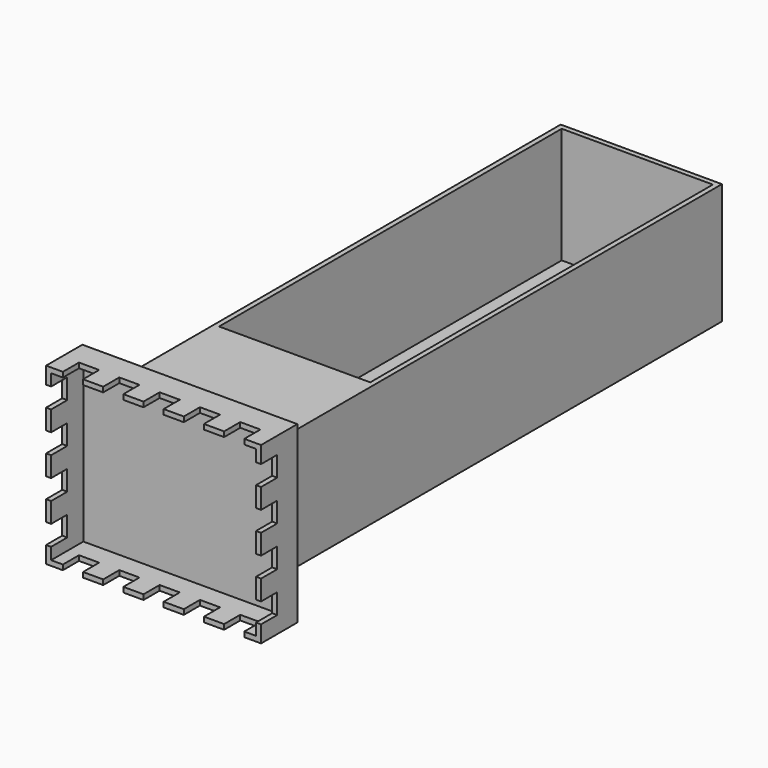
from build123d import *

# Parameters (mm, degrees)
F1_DEPTH  = 1066.8
F2_W      = 812.8
F2_H      = 660.4
F3_DEPTH  = 19.05
F4_W      = 812.8
F4_H      = 660.4
F4_W_2    = 774.7
F4_H_2    = 622.3
F5_DEPTH  = 152.4
F6_W      = 76.2
F6_H      = 76.2
F7_DEPTH  = 660.401
F8_W      = 76.2
F8_H      = 76.2
F9_DEPTH  = 812.801
F10_W     = 571.5
F10_H     = 19.05
F11_DEPTH = 438.15
F12_W     = 571.5
F12_H     = 19.05
F13_DEPTH = 495.3


with BuildPart() as f1:
    # F0 (on Front) → F1 (new body, symmetric)
    with BuildSketch(Plane.XZ):
        Polygon((304.8, -228.6), (304.8, 228.6), (285.75, 228.6), (285.75, 209.55), (285.75, -209.55), (-285.75, -209.55), (-285.75, 209.55), (-285.75, 228.6), (-304.8, 228.6), (-304.8, -228.6), align=None)
    extrude(amount=F1_DEPTH, both=True)

    # F2 (on face) → F3 (join)
    with BuildSketch(Plane.XZ.offset(1066.8)):
        Rectangle(F2_W, F2_H)
    extrude(amount=F3_DEPTH)

    # F4 (on face) → F5 (join)
    with BuildSketch(Plane.XZ.offset(1085.85)):
        Rectangle(F4_W, F4_H)
        Rectangle(F4_W_2, F4_H_2, mode=Mode.SUBTRACT)
    extrude(amount=F5_DEPTH)

    # F6 (on face) → F7 (cut, through all)
    with BuildSketch(Plane(origin=(0, 0, -330.2), x_dir=(1, 0, 0), z_dir=(0, 0, -1))):
        with Locations((-304.8, 1200.15)):
            Rectangle(F6_W, F6_H)
        with Locations((-152.4, 1200.15)):
            Rectangle(F6_W, F6_H)
        with Locations((0, 1200.15)):
            Rectangle(F6_W, F6_H)
        with Locations((152.4, 1200.15)):
            Rectangle(F6_W, F6_H)
        with Locations((304.8, 1200.15)):
            Rectangle(F6_W, F6_H)
    extrude(amount=-F7_DEPTH, mode=Mode.SUBTRACT)

    # F8 (on face) → F9 (cut, through all)
    with BuildSketch(Plane(origin=(-406.4, 0, 0), x_dir=(0, -1, 0), z_dir=(-1, 0, 0))):
        with Locations((1200.15, 228.6)):
            Rectangle(F8_W, F8_H)
        with Locations((1200.15, 76.2)):
            Rectangle(F8_W, F8_H)
        with Locations((1200.15, -76.2)):
            Rectangle(F8_W, F8_H)
        with Locations((1200.15, -228.6)):
            Rectangle(F8_W, F8_H)
    extrude(amount=-F9_DEPTH, mode=Mode.SUBTRACT)

    # F10 (on face) → F11 (join, through all)
    with BuildSketch(Plane.XY.offset(-209.55)):
        with Locations((0, 1057.275)):
            Rectangle(F10_W, F10_H)
    extrude(amount=F11_DEPTH)

    # F12 (on face) → F13 (join)
    with BuildSketch(Plane(origin=(0, -1066.8, 0), x_dir=(-1, 0, 0), z_dir=(0, 1, 0))):
        with Locations((0, 219.075)):
            Rectangle(F12_W, F12_H)
    extrude(amount=F13_DEPTH)


solid = f1.part
